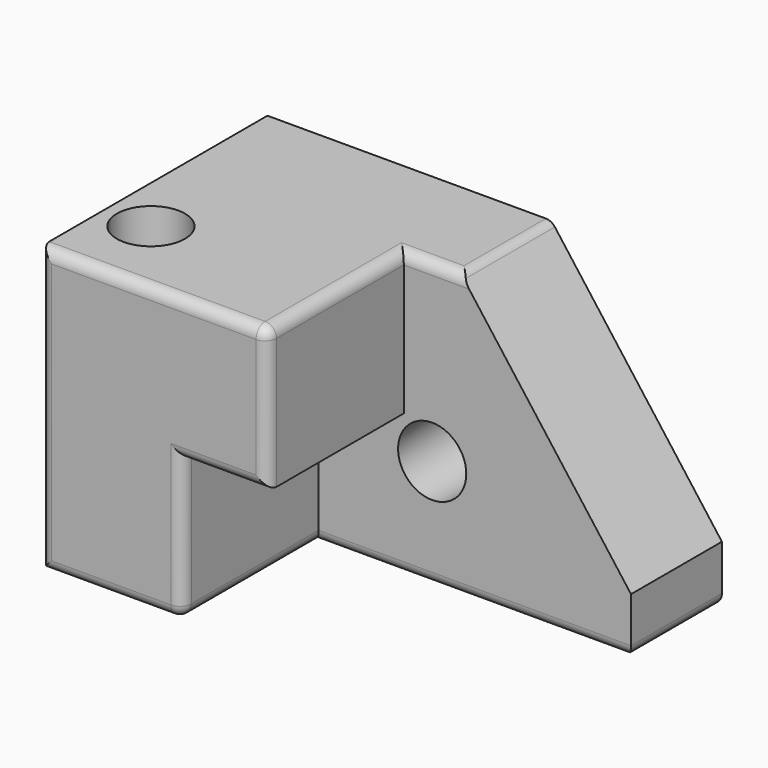
from build123d import *

# Parameters (mm, degrees)
F0_W     = 203.2
F0_H     = 127
F1_DEPTH = 127
F3_DEPTH = 76.2
F4_SIZE2 = 101.6
F4_SIZE  = 76.2
F5_R     = 5.08
F6_R     = 15.24
F7_DEPTH = 50.8
F8_R     = 15.24
F9_DEPTH = 127


with BuildPart() as f1:
    # F0 (on Front) → F1 (new body)
    with BuildSketch(Plane.XZ):
        with Locations((-4.2091682553, -6.2115366554)):
            Rectangle(F0_W, F0_H)
    extrude(amount=F1_DEPTH)

    # F2 (on face) → F3 (cut)
    with BuildSketch(Plane.XZ.offset(127)):
        Polygon((97.3908317447, 57.2884633446), (-4.2091682553, 57.2884633446), (-4.2091682553, -6.2115366554), (-42.3091682553, -6.2115366554), (-42.3091682553, -69.7115366554), (97.3908317447, -69.7115366554), align=None)
    extrude(amount=-F3_DEPTH, mode=Mode.SUBTRACT)

    # F4
    f4_edges = [f1.edges().sort_by_distance(p)[0] for p in [
        (97.390832, -25.4, 57.288463),
    ]]
    f4_side = f1.faces().sort_by_distance((-25.980597, -52.614286, 57.288463))[0]
    chamfer(f4_edges, length=F4_SIZE, length2=F4_SIZE2, reference=f4_side)

    # F5
    f5_edges = [f1.edges().sort_by_distance(p)[0] for p in [
        (-55.009168, -127, 57.288463),
        (-4.209168, -88.9, 57.288463),
        (8.490832, -50.8, 57.288463),
        (21.190832, -25.4, 57.288463),
        (-4.209168, -127, 25.538463),
        (-23.259168, -127, -6.211537),
        (-42.309168, -127, -37.961537),
        (-74.059168, -127, -69.711537),
        (-105.809168, -127, -6.211537),
        (-42.309168, -88.9, -69.711537),
        (27.540832, -50.8, -69.711537),
        (97.390832, -25.4, -69.711537),
    ]]
    fillet(f5_edges, radius=F5_R)

    # F6 (on face) → F7 (cut)
    with BuildSketch(Plane.XZ.offset(50.8)):
        with Locations((8.4908317447, -20.9435366554)):
            Circle(F6_R)
    extrude(amount=-F7_DEPTH, mode=Mode.SUBTRACT)

    # F8 (on face) → F9 (cut, through all)
    with BuildSketch(Plane.XY.offset(57.2884633446)):
        with Locations((-85.3469744325, -90.6746312976)):
            Circle(F8_R)
    extrude(amount=-F9_DEPTH, mode=Mode.SUBTRACT)


solid = f1.part
